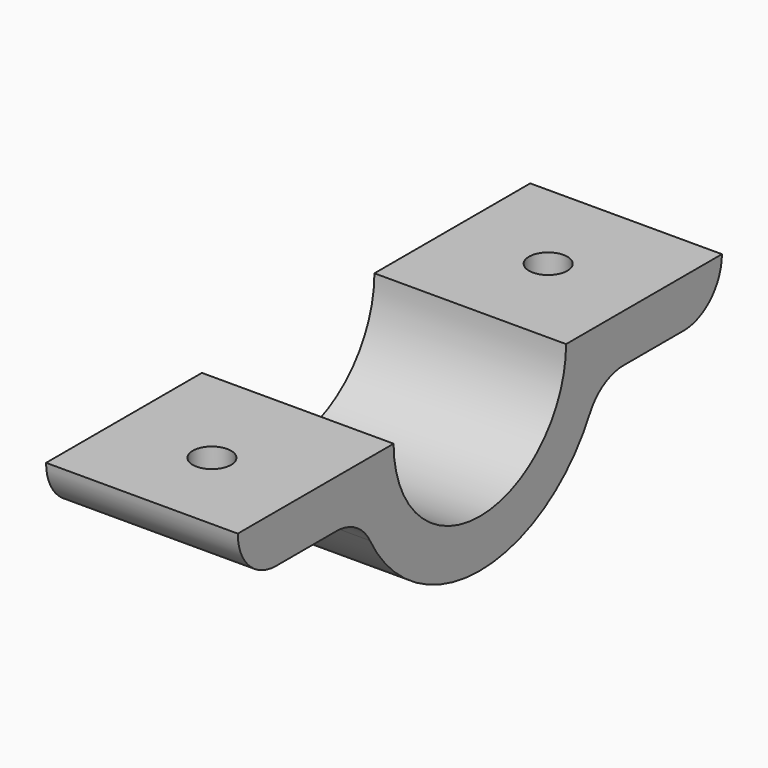
from build123d import *

# Parameters (mm, degrees)
F0_R      = 2
F1_DEPTH  = 25
F3_DEPTH  = 276
F4_R      = 2
F5_DEPTH  = 84.8
F6_R      = 2.5
F7_DEPTH  = 5
F9_DEPTH  = 20
F10_R     = 2
F11_DEPTH = 25
F14_DEPTH = 2


with BuildPart() as f1:
    # F0 (on Top) → F1 (new body)
    with BuildSketch(Plane.XY):
        with BuildLine():
            Line((-51.434658, 66.572686), (-81.434658, 66.572686))
            Line((-81.434658, 66.572686), (-81.434658, -43.427314))
            Line((-81.434658, -43.427314), (-6.434658, -43.427314))
            ThreePointArc((-6.434658, -43.427314), (8.565342, -58.427314), (23.565342, -43.427314))
            Line((23.565342, -43.427314), (98.565342, -43.427314))
            Line((98.565342, -43.427314), (98.565342, 66.572686))
            Line((98.565342, 66.572686), (68.565342, 66.572686))
            ThreePointArc((68.565342, 66.572686), (53.565342, 81.572686), (38.565342, 66.572686))
            Line((38.565342, 66.572686), (-21.434658, 66.572686))
            ThreePointArc((-21.434658, 66.572686), (-36.434658, 81.572686), (-51.434658, 66.572686))
        make_face()
        with Locations((8.565342, -50.927314)):
            Circle(F0_R, mode=Mode.SUBTRACT)
        with Locations((-36.434658, 74.072686)):
            Circle(F0_R, mode=Mode.SUBTRACT)
        with Locations((53.565342, 74.072686)):
            Circle(F0_R, mode=Mode.SUBTRACT)
    extrude(amount=F1_DEPTH)

    # F2 (on face) → F3 (cut)
    with BuildSketch(Plane.YZ.offset(98.565342)):
        with BuildLine():
            Line((43.145373, 0), (22.822686, 0))
            ThreePointArc((22.822686, 0), (11.572686, 11.25), (0.322686, 0))
            Line((0.322686, 0), (-20, 0))
            ThreePointArc((-20, 0), (-41.231841, 11.150842), (-64.902842, 15))
            Line((-64.902842, 15), (-64.902842, -16.413443))
            Line((-64.902842, -16.413443), (88.048215, -16.413443))
            Line((88.048215, -16.413443), (88.048215, 15))
            ThreePointArc((88.048215, 15), (64.377213, 11.150842), (43.145373, 0))
        make_face()
    extrude(amount=-F3_DEPTH, mode=Mode.SUBTRACT)

    # F4 (on face) → F5 (cut)
    with BuildSketch(Plane.XY.offset(25)):
        with Locations((-56.434658, 32.872686)):
            Circle(F4_R)
        with Locations((73.565342, 32.872686)):
            Circle(F4_R)
        with Locations((-56.434658, -9.727314)):
            Circle(F4_R)
        with Locations((73.565342, -9.727314)):
            Circle(F4_R)
    extrude(amount=-F5_DEPTH, mode=Mode.SUBTRACT)

    # F6 (on face) → F7 (cut)
    with BuildSketch(Plane.XY.offset(25)):
        with Locations((-56.434658, 32.872686)):
            Circle(F6_R)
        with Locations((73.565342, 32.872686)):
            Circle(F6_R)
        with Locations((73.565342, -9.727314)):
            Circle(F6_R)
        with Locations((-56.434658, -9.727314)):
            Circle(F6_R)
    extrude(amount=-F7_DEPTH, mode=Mode.SUBTRACT)


with BuildPart() as f9:
    # F8 (on face) → F9 (new body)
    with BuildSketch(Plane(origin=(-81.434658, 0, 0), x_dir=(0, -1, 0), z_dir=(-1, 0, 0))):
        with BuildLine():
            ThreePointArc((-0.322686, 0), (-11.572686, -11.25), (-22.822686, 0))
            Line((-22.822686, 0), (-43.145373, 0))
            ThreePointArc((-43.145373, 0), (-41.680906, -3.535534), (-38.145373, -5))
            Line((-38.145373, -5), (-30.322686, -5))
            ThreePointArc((-30.322686, -5), (-27.750207, -5.712535), (-25.910922, -7.647059))
            ThreePointArc((-25.910922, -7.647059), (-11.572686, -16.25), (2.765549, -7.647059))
            ThreePointArc((2.765549, -7.647059), (4.604835, -5.712535), (7.177314, -5))
            Line((7.177314, -5), (15, -5))
            ThreePointArc((15, -5), (18.535534, -3.535534), (20, 0))
            Line((20, 0), (-0.322686, 0))
        make_face()
    extrude(amount=F9_DEPTH)

    # F10 (on face) → F11 (cut)
    with BuildSketch(Plane.XY):
        with Locations((-91.434658, 32.984029)):
            Circle(F10_R)
        with Locations((-91.434658, -10.871857)):
            Circle(F10_R)
    extrude(amount=-F11_DEPTH, mode=Mode.SUBTRACT)

    # F13 (on face) + F12 (on face) → F14 (cut)
    with BuildSketch(Plane(origin=(0, 0, -5), x_dir=(1, 0, 0), z_dir=(0, 0, -1))):
        Polygon((-89.965689, 8.371431), (-88.534741, 10.893809), (-90.00371, 13.394235), (-92.903627, 13.372283), (-94.334575, 10.849906), (-92.865606, 8.34948), align=None)
    with BuildSketch(Plane(origin=(0, 0, -5), x_dir=(1, 0, 0), z_dir=(0, 0, -1))):
        Polygon((-89.982201, -35.494083), (-88.534659, -32.981191), (-89.987117, -30.471138), (-92.887115, -30.473976), (-94.334657, -32.986868), (-92.882199, -35.496921), align=None)
    extrude(amount=-F14_DEPTH, mode=Mode.SUBTRACT)


solid = f9.part
